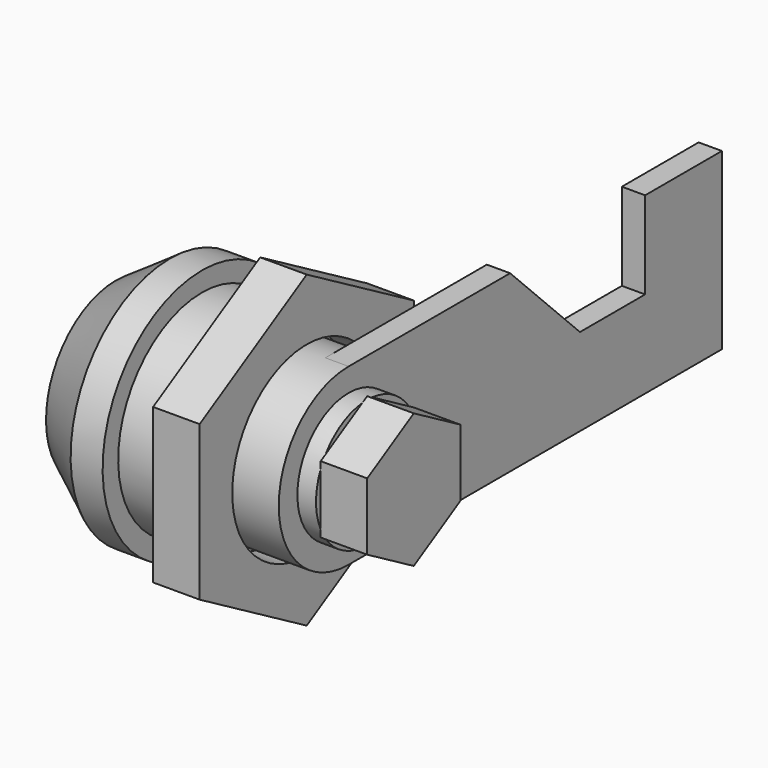
from build123d import *

# Parameters (mm, degrees)
F4_R      = 8
F5_DEPTH  = 4
F7_DEPTH  = 2
F9_DEPTH  = 4
F11_DEPTH = 25


with BuildPart() as f1:
    # F0 (on Front) → F1 (revolve)
    with BuildSketch(Plane.XZ):
        Polygon((0, 7.5), (0, 0), (21.6, 0), (21.6, 5.5), (20, 5.5), (20, 7.5), (13.5, 7.5), (13.5, 9), (7.4, 9), (7.4, 10.675), (4.65, 10.675), align=None)
    revolve(axis=Axis((10.8, 0, 0), (1, 0, 0)))

    # F4 (on offset) → F5 (join)
    with BuildSketch(Plane.YZ.offset(12.4)):
        Polygon((11.5, 6.6395280957), (0, 13.2790561914), (-11.5, 6.6395280957), (-11.5, -6.6395280957), (0, -13.2790561914), (11.5, -6.6395280957), align=None)
        Circle(F4_R, mode=Mode.SUBTRACT)
    extrude(amount=F5_DEPTH)

    # F6 (on face) → F7 (join)
    with BuildSketch(Plane.YZ.offset(20)):
        with BuildLine():
            Line((40.1, 7.5), (0, 7.5))
            ThreePointArc((0, 7.5), (-7.5, 0), (0, -7.5))
            Line((0, -7.5), (40.1, -7.5))
            Line((40.1, -7.5), (40.1, 7.5))
        make_face()
    extrude(amount=-F7_DEPTH)

    # F8 (on face) → F9 (join)
    with BuildSketch(Plane.YZ.offset(21.6)):
        Polygon((5, -2.8867513459), (5, 2.8867513459), (0, 5.7735026919), (-5, 2.8867513459), (-5, -2.8867513459), (0, -5.7735026919), align=None)
    extrude(amount=F9_DEPTH)

    # F10 (on face) → F11 (cut)
    with BuildSketch(Plane(origin=(18, 0, 0), x_dir=(0, -1, 0), z_dir=(-1, 0, 0))):
        Polygon((-17.35, 7.5), (-31.85, 7.5), (-31.85, 0), (-24.85, 0), align=None)
    extrude(amount=-F11_DEPTH, mode=Mode.SUBTRACT)


solid = f1.part
